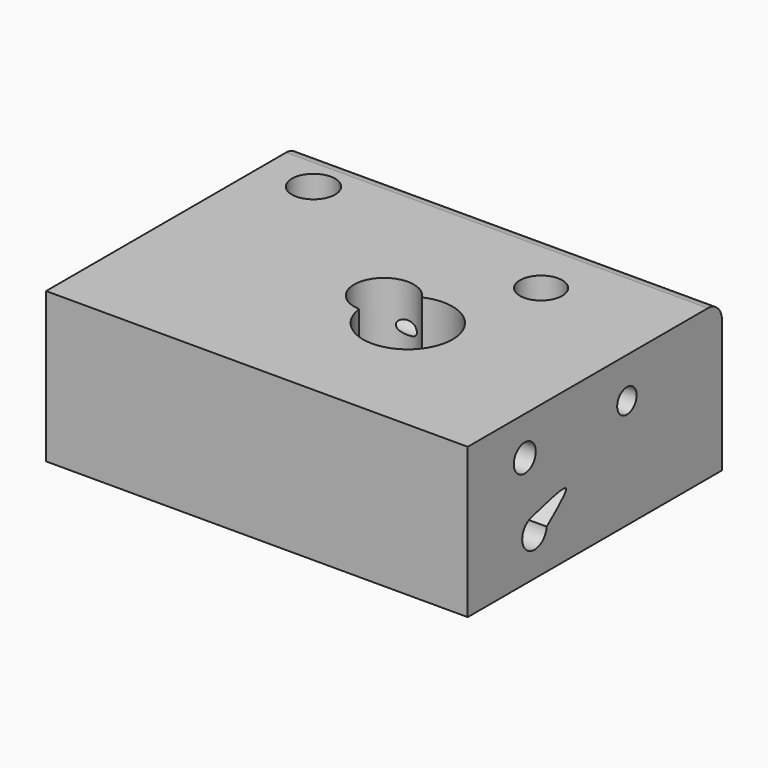
from build123d import *

# Parameters (mm, degrees)
F0_W     = 229.6963825016
F0_H     = 108.4231149972
F0_R     = 9.942969978
F0_R_2   = 8.7794022154
F1_DEPTH = 152.4
F2_R     = 15.637009349
F2_R_2   = 15.3013139209
F3_DEPTH = 108.4241150972
F4_R     = 12.7


with BuildPart() as f1:
    # F0 (on Right) → F1 (new body, symmetric)
    with BuildSketch(Plane.YZ):
        Rectangle(F0_W, F0_H)
        with BuildLine():
            ThreePointArc((-43.4804819524, -25.5854520947), (-61.6064477727, -33.2849477454), (-57.3824048042, -14.049815014))
            add(Edge.make_bspline(
                [(-57.3824048042, -14.049815014), (-42.3782414018, -9.9389745723), (-14.222776702, -2.224940818), (-34.1653761162, -18.1479024622), (-43.4804819524, -25.5854520947)],
                knots=[0, 0, 0, 0, 0.5329041294, 1, 1, 1, 1], degree=3))
        make_face(mode=Mode.SUBTRACT)
        with Locations((-63.2981136441, 26.1770226061)):
            Circle(F0_R, mode=Mode.SUBTRACT)
        with Locations((28.9869904518, 24.9938834459)):
            Circle(F0_R_2, mode=Mode.SUBTRACT)
    extrude(amount=F1_DEPTH, both=True)

    # F2 (on face) → F3 (cut, through all)
    with BuildSketch(Plane.XY.offset(54.2115574986)):
        with Locations((-114.2957806332, 79.1441154076)):
            Circle(F2_R)
        with Locations((63.5042193668, 62.5812566792)):
            Circle(F2_R_2)
        with BuildLine():
            ThreePointArc((-0.654293087, -21.5848963512), (33.3430248824, -50.0341097243), (63.7498454838, -17.775767678))
            ThreePointArc((63.7498454838, -17.775767678), (48.9743135647, 9.3649362096), (18.1596027821, 11.6860890263))
            ThreePointArc((18.1596027821, 11.6860890263), (20.7182170411, 6.0902653943), (21.5948107177, 0))
            ThreePointArc((21.5948107177, 0), (15.0367302723, -15.4994384625), (-0.654293087, -21.5848963512))
        make_face()
        with BuildLine():
            ThreePointArc((21.5948107177, 0), (20.7182170411, 6.0902653943), (18.1596027821, 11.6860890263))
            ThreePointArc((18.1596027821, 11.6860890263), (3.3062432367, -1.8695964447), (-0.654293087, -21.5848963512))
            ThreePointArc((-0.654293087, -21.5848963512), (15.0367302723, -15.4994384625), (21.5948107177, 0))
        make_face()
        with BuildLine():
            ThreePointArc((-0.654293087, -21.5848963512), (3.3062432367, -1.8695964447), (18.1596027821, 11.6860890263))
            ThreePointArc((18.1596027821, 11.6860890263), (-18.7975685629, 10.6295468416), (-0.654293087, -21.5848963512))
        make_face()
    extrude(amount=-F3_DEPTH, mode=Mode.SUBTRACT)

    # F4
    f4_edges = [f1.edges().sort_by_distance(p)[0] for p in [
        (0, 114.848191, 54.211557),
    ]]
    fillet(f4_edges, radius=F4_R)


solid = f1.part
